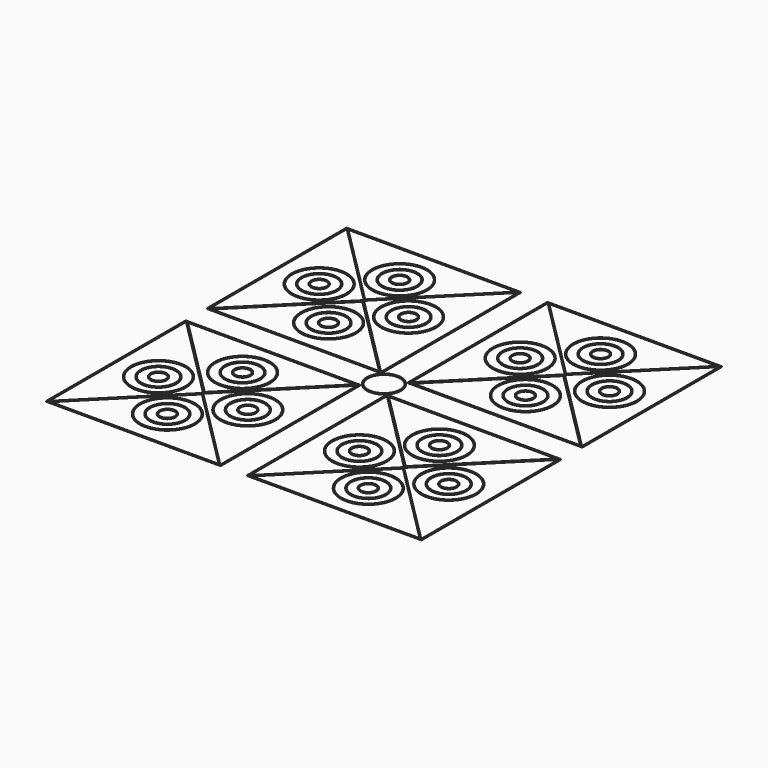
from build123d import *

# Parameters (mm, degrees)
F0_W     = 60.8
F0_H     = 60.8
F1_DEPTH = 0.27
F0_R     = 2.9
F0_R_2   = 2.5
F0_R_3   = 6.3
F0_R_4   = 5.9
F0_R_5   = 9.7
F0_R_6   = 9.3
F2_R     = 6
F2_R_2   = 5.6
F3_DEPTH = 0.27


with BuildPart() as f1:
    # F0 (on Top) → F1 (new body)
    with BuildSketch(Plane.XY):
        with Locations((35, -35)):
            Rectangle(F0_W, F0_H)
        Polygon((5.5656854249, -65), (35, -35.5656854249), (64.4343145751, -65), align=None, mode=Mode.SUBTRACT)
        with BuildLine():
            ThreePointArc((34.8585786438, -34.8585786438), (34.8, -35), (34.8585786438, -35.1414213562))
            Line((34.8585786438, -35.1414213562), (5, -65))
            Line((5, -65), (5, -5))
            Line((5, -5), (34.8585786438, -34.8585786438))
        make_face(mode=Mode.SUBTRACT)
        with BuildLine():
            ThreePointArc((35.1414213562, -35.1414213562), (35.2, -35), (35.1414213562, -34.8585786438))
            Line((35.1414213562, -34.8585786438), (65, -5))
            Line((65, -5), (65, -65))
            Line((65, -65), (35.1414213562, -35.1414213562))
        make_face(mode=Mode.SUBTRACT)
        Polygon((5.7071067812, -5), (64.2928932188, -5), (35, -34.2928932188), align=None, mode=Mode.SUBTRACT)
    extrude(amount=F1_DEPTH)


with BuildPart() as f1b:
    # F0 (on Top) → F1, piece 2 (new body)
    with BuildSketch(Plane.XY):
        with Locations((34.2928932188, -18.7272077939)):
            Circle(F0_R)
        with Locations((34.2928932188, -18.7272077939)):
            Circle(F0_R_2, mode=Mode.SUBTRACT)
    extrude(amount=F1_DEPTH)


with BuildPart() as f1c:
    # F0 (on Top) → F1, piece 3 (new body)
    with BuildSketch(Plane.XY):
        with Locations((34.2928932188, -18.7272077939)):
            Circle(F0_R_3)
        with Locations((34.2928932188, -18.7272077939)):
            Circle(F0_R_4, mode=Mode.SUBTRACT)
    extrude(amount=F1_DEPTH)


with BuildPart() as f1d:
    # F0 (on Top) → F1, piece 4 (new body)
    with BuildSketch(Plane.XY):
        with Locations((34.2928932188, -18.7272077939)):
            Circle(F0_R_5)
        with Locations((34.2928932188, -18.7272077939)):
            Circle(F0_R_6, mode=Mode.SUBTRACT)
    extrude(amount=F1_DEPTH)


with BuildPart() as f1e:
    # F0 (on Top) → F1, piece 5 (new body)
    with BuildSketch(Plane.XY):
        with Locations((50.5656854249, -35)):
            Circle(F0_R_5)
        with Locations((50.5656854249, -35)):
            Circle(F0_R_6, mode=Mode.SUBTRACT)
    extrude(amount=F1_DEPTH)


with BuildPart() as f1f:
    # F0 (on Top) → F1, piece 6 (new body)
    with BuildSketch(Plane.XY):
        with Locations((50.5656854249, -35)):
            Circle(F0_R_3)
        with Locations((50.5656854249, -35)):
            Circle(F0_R_4, mode=Mode.SUBTRACT)
    extrude(amount=F1_DEPTH)


with BuildPart() as f1g:
    # F0 (on Top) → F1, piece 7 (new body)
    with BuildSketch(Plane.XY):
        with Locations((50.5656854249, -35)):
            Circle(F0_R)
        with Locations((50.5656854249, -35)):
            Circle(F0_R_2, mode=Mode.SUBTRACT)
    extrude(amount=F1_DEPTH)


with BuildPart() as f1h:
    # F0 (on Top) → F1, piece 8 (new body)
    with BuildSketch(Plane.XY):
        with Locations((19.4343145751, -35)):
            Circle(F0_R_5)
        with Locations((19.4343145751, -35)):
            Circle(F0_R_6, mode=Mode.SUBTRACT)
    extrude(amount=F1_DEPTH)


with BuildPart() as f1i:
    # F0 (on Top) → F1, piece 9 (new body)
    with BuildSketch(Plane.XY):
        with Locations((19.4343145751, -35)):
            Circle(F0_R_3)
        with Locations((19.4343145751, -35)):
            Circle(F0_R_4, mode=Mode.SUBTRACT)
    extrude(amount=F1_DEPTH)


with BuildPart() as f1j:
    # F0 (on Top) → F1, piece 10 (new body)
    with BuildSketch(Plane.XY):
        with Locations((19.4343145751, -35)):
            Circle(F0_R)
        with Locations((19.4343145751, -35)):
            Circle(F0_R_2, mode=Mode.SUBTRACT)
    extrude(amount=F1_DEPTH)


with BuildPart() as f1k:
    # F0 (on Top) → F1, piece 11 (new body)
    with BuildSketch(Plane.XY):
        with Locations((35, -50.5656854249)):
            Circle(F0_R_5)
        with Locations((35, -50.5656854249)):
            Circle(F0_R_6, mode=Mode.SUBTRACT)
    extrude(amount=F1_DEPTH)


with BuildPart() as f1l:
    # F0 (on Top) → F1, piece 12 (new body)
    with BuildSketch(Plane.XY):
        with Locations((35, -50.5656854249)):
            Circle(F0_R_3)
        with Locations((35, -50.5656854249)):
            Circle(F0_R_4, mode=Mode.SUBTRACT)
    extrude(amount=F1_DEPTH)


with BuildPart() as f1m:
    # F0 (on Top) → F1, piece 13 (new body)
    with BuildSketch(Plane.XY):
        with Locations((35, -50.5656854249)):
            Circle(F0_R)
        with Locations((35, -50.5656854249)):
            Circle(F0_R_2, mode=Mode.SUBTRACT)
    extrude(amount=F1_DEPTH)


with BuildPart() as f1n:
    # F0 (on Top) → F1, piece 14 (new body)
    with BuildSketch(Plane.XY):
        with Locations((-35, -35)):
            Rectangle(F0_W, F0_H)
        Polygon((-35, -35.5656854249), (-5.5656854249, -65), (-64.4343145751, -65), align=None, mode=Mode.SUBTRACT)
        with BuildLine():
            Line((-35.1414213562, -35.1414213562), (-65, -65))
            Line((-65, -65), (-65, -5))
            Line((-65, -5), (-35.1414213562, -34.8585786438))
            ThreePointArc((-35.1414213562, -34.8585786438), (-35.2, -35), (-35.1414213562, -35.1414213562))
        make_face(mode=Mode.SUBTRACT)
        Polygon((-64.2928932188, -5), (-5.7071067812, -5), (-35, -34.2928932188), align=None, mode=Mode.SUBTRACT)
        with BuildLine():
            Line((-5, -5), (-5, -65))
            Line((-5, -65), (-34.8585786438, -35.1414213562))
            ThreePointArc((-34.8585786438, -35.1414213562), (-34.8, -35), (-34.8585786438, -34.8585786438))
            Line((-34.8585786438, -34.8585786438), (-5, -5))
        make_face(mode=Mode.SUBTRACT)
    extrude(amount=F1_DEPTH)


with BuildPart() as f1o:
    # F0 (on Top) → F1, piece 15 (new body)
    with BuildSketch(Plane.XY):
        with Locations((-34.2928932188, -18.7272077939)):
            Circle(F0_R_5)
        with Locations((-34.2928932188, -18.7272077939)):
            Circle(F0_R_6, mode=Mode.SUBTRACT)
    extrude(amount=F1_DEPTH)


with BuildPart() as f1p:
    # F0 (on Top) → F1, piece 16 (new body)
    with BuildSketch(Plane.XY):
        with Locations((-34.2928932188, -18.7272077939)):
            Circle(F0_R_3)
        with Locations((-34.2928932188, -18.7272077939)):
            Circle(F0_R_4, mode=Mode.SUBTRACT)
    extrude(amount=F1_DEPTH)


with BuildPart() as f1q:
    # F0 (on Top) → F1, piece 17 (new body)
    with BuildSketch(Plane.XY):
        with Locations((-34.2928932188, -18.7272077939)):
            Circle(F0_R)
        with Locations((-34.2928932188, -18.7272077939)):
            Circle(F0_R_2, mode=Mode.SUBTRACT)
    extrude(amount=F1_DEPTH)


with BuildPart() as f1r:
    # F0 (on Top) → F1, piece 18 (new body)
    with BuildSketch(Plane.XY):
        with Locations((-19.4343145751, -35)):
            Circle(F0_R_5)
        with Locations((-19.4343145751, -35)):
            Circle(F0_R_6, mode=Mode.SUBTRACT)
    extrude(amount=F1_DEPTH)


with BuildPart() as f1s:
    # F0 (on Top) → F1, piece 19 (new body)
    with BuildSketch(Plane.XY):
        with Locations((-19.4343145751, -35)):
            Circle(F0_R_3)
        with Locations((-19.4343145751, -35)):
            Circle(F0_R_4, mode=Mode.SUBTRACT)
    extrude(amount=F1_DEPTH)


with BuildPart() as f1t:
    # F0 (on Top) → F1, piece 20 (new body)
    with BuildSketch(Plane.XY):
        with Locations((-19.4343145751, -35)):
            Circle(F0_R)
        with Locations((-19.4343145751, -35)):
            Circle(F0_R_2, mode=Mode.SUBTRACT)
    extrude(amount=F1_DEPTH)


with BuildPart() as f1u:
    # F0 (on Top) → F1, piece 21 (new body)
    with BuildSketch(Plane.XY):
        with Locations((-35, -50.5656854249)):
            Circle(F0_R_5)
        with Locations((-35, -50.5656854249)):
            Circle(F0_R_6, mode=Mode.SUBTRACT)
    extrude(amount=F1_DEPTH)


with BuildPart() as f1v:
    # F0 (on Top) → F1, piece 22 (new body)
    with BuildSketch(Plane.XY):
        with Locations((-35, -50.5656854249)):
            Circle(F0_R_3)
        with Locations((-35, -50.5656854249)):
            Circle(F0_R_4, mode=Mode.SUBTRACT)
    extrude(amount=F1_DEPTH)


with BuildPart() as f1w:
    # F0 (on Top) → F1, piece 23 (new body)
    with BuildSketch(Plane.XY):
        with Locations((-35, -50.5656854249)):
            Circle(F0_R)
        with Locations((-35, -50.5656854249)):
            Circle(F0_R_2, mode=Mode.SUBTRACT)
    extrude(amount=F1_DEPTH)


with BuildPart() as f1x:
    # F0 (on Top) → F1, piece 24 (new body)
    with BuildSketch(Plane.XY):
        with Locations((-50.5656854249, -35)):
            Circle(F0_R_5)
        with Locations((-50.5656854249, -35)):
            Circle(F0_R_6, mode=Mode.SUBTRACT)
    extrude(amount=F1_DEPTH)


with BuildPart() as f1y:
    # F0 (on Top) → F1, piece 25 (new body)
    with BuildSketch(Plane.XY):
        with Locations((-50.5656854249, -35)):
            Circle(F0_R_3)
        with Locations((-50.5656854249, -35)):
            Circle(F0_R_4, mode=Mode.SUBTRACT)
    extrude(amount=F1_DEPTH)


with BuildPart() as f1z:
    # F0 (on Top) → F1, piece 26 (new body)
    with BuildSketch(Plane.XY):
        with Locations((-50.5656854249, -35)):
            Circle(F0_R)
        with Locations((-50.5656854249, -35)):
            Circle(F0_R_2, mode=Mode.SUBTRACT)
    extrude(amount=F1_DEPTH)


with BuildPart() as f1ba:
    # F0 (on Top) → F1, piece 27 (new body)
    with BuildSketch(Plane.XY):
        with Locations((-35, 35)):
            Rectangle(F0_W, F0_H)
        Polygon((-35, 34.2928932188), (-5.7071067812, 5), (-64.2928932188, 5), align=None, mode=Mode.SUBTRACT)
        with BuildLine():
            ThreePointArc((-35.1414213562, 35.1414213562), (-35.2, 35), (-35.1414213562, 34.8585786438))
            Line((-35.1414213562, 34.8585786438), (-65, 5))
            Line((-65, 5), (-65, 65))
            Line((-65, 65), (-35.1414213562, 35.1414213562))
        make_face(mode=Mode.SUBTRACT)
        with BuildLine():
            ThreePointArc((-34.8585786438, 34.8585786438), (-34.8, 35), (-34.8585786438, 35.1414213562))
            Line((-34.8585786438, 35.1414213562), (-5, 65))
            Line((-5, 65), (-5, 5))
            Line((-5, 5), (-34.8585786438, 34.8585786438))
        make_face(mode=Mode.SUBTRACT)
        Polygon((-64.4343145751, 65), (-5.5656854249, 65), (-35, 35.5656854249), align=None, mode=Mode.SUBTRACT)
    extrude(amount=F1_DEPTH)


with BuildPart() as f1bb:
    # F0 (on Top) → F1, piece 28 (new body)
    with BuildSketch(Plane.XY):
        with Locations((-50.5656854249, 35)):
            Circle(F0_R_5)
        with Locations((-50.5656854249, 35)):
            Circle(F0_R_6, mode=Mode.SUBTRACT)
    extrude(amount=F1_DEPTH)


with BuildPart() as f1bc:
    # F0 (on Top) → F1, piece 29 (new body)
    with BuildSketch(Plane.XY):
        with Locations((-50.5656854249, 35)):
            Circle(F0_R_3)
        with Locations((-50.5656854249, 35)):
            Circle(F0_R_4, mode=Mode.SUBTRACT)
    extrude(amount=F1_DEPTH)


with BuildPart() as f1bd:
    # F0 (on Top) → F1, piece 30 (new body)
    with BuildSketch(Plane.XY):
        with Locations((-50.5656854249, 35)):
            Circle(F0_R)
        with Locations((-50.5656854249, 35)):
            Circle(F0_R_2, mode=Mode.SUBTRACT)
    extrude(amount=F1_DEPTH)


with BuildPart() as f1be:
    # F0 (on Top) → F1, piece 31 (new body)
    with BuildSketch(Plane.XY):
        with Locations((-34.2928932188, 18.7272077939)):
            Circle(F0_R_5)
        with Locations((-34.2928932188, 18.7272077939)):
            Circle(F0_R_6, mode=Mode.SUBTRACT)
    extrude(amount=F1_DEPTH)


with BuildPart() as f1bf:
    # F0 (on Top) → F1, piece 32 (new body)
    with BuildSketch(Plane.XY):
        with Locations((-34.2928932188, 18.7272077939)):
            Circle(F0_R_3)
        with Locations((-34.2928932188, 18.7272077939)):
            Circle(F0_R_4, mode=Mode.SUBTRACT)
    extrude(amount=F1_DEPTH)


with BuildPart() as f1bg:
    # F0 (on Top) → F1, piece 33 (new body)
    with BuildSketch(Plane.XY):
        with Locations((-34.2928932188, 18.7272077939)):
            Circle(F0_R)
        with Locations((-34.2928932188, 18.7272077939)):
            Circle(F0_R_2, mode=Mode.SUBTRACT)
    extrude(amount=F1_DEPTH)


with BuildPart() as f1bh:
    # F0 (on Top) → F1, piece 34 (new body)
    with BuildSketch(Plane.XY):
        with Locations((-19.4343145751, 35)):
            Circle(F0_R_5)
        with Locations((-19.4343145751, 35)):
            Circle(F0_R_6, mode=Mode.SUBTRACT)
    extrude(amount=F1_DEPTH)


with BuildPart() as f1bi:
    # F0 (on Top) → F1, piece 35 (new body)
    with BuildSketch(Plane.XY):
        with Locations((-19.4343145751, 35)):
            Circle(F0_R_3)
        with Locations((-19.4343145751, 35)):
            Circle(F0_R_4, mode=Mode.SUBTRACT)
    extrude(amount=F1_DEPTH)


with BuildPart() as f1bj:
    # F0 (on Top) → F1, piece 36 (new body)
    with BuildSketch(Plane.XY):
        with Locations((-19.4343145751, 35)):
            Circle(F0_R)
        with Locations((-19.4343145751, 35)):
            Circle(F0_R_2, mode=Mode.SUBTRACT)
    extrude(amount=F1_DEPTH)


with BuildPart() as f1bk:
    # F0 (on Top) → F1, piece 37 (new body)
    with BuildSketch(Plane.XY):
        with Locations((-35, 50.5656854249)):
            Circle(F0_R_5)
        with Locations((-35, 50.5656854249)):
            Circle(F0_R_6, mode=Mode.SUBTRACT)
    extrude(amount=F1_DEPTH)


with BuildPart() as f1bl:
    # F0 (on Top) → F1, piece 38 (new body)
    with BuildSketch(Plane.XY):
        with Locations((-35, 50.5656854249)):
            Circle(F0_R_3)
        with Locations((-35, 50.5656854249)):
            Circle(F0_R_4, mode=Mode.SUBTRACT)
    extrude(amount=F1_DEPTH)


with BuildPart() as f1bm:
    # F0 (on Top) → F1, piece 39 (new body)
    with BuildSketch(Plane.XY):
        with Locations((-35, 50.5656854249)):
            Circle(F0_R)
        with Locations((-35, 50.5656854249)):
            Circle(F0_R_2, mode=Mode.SUBTRACT)
    extrude(amount=F1_DEPTH)


with BuildPart() as f1bn:
    # F0 (on Top) → F1, piece 40 (new body)
    with BuildSketch(Plane.XY):
        with Locations((35, 35)):
            Rectangle(F0_W, F0_H)
        Polygon((64.2928932188, 5), (5.7071067812, 5), (35, 34.2928932188), align=None, mode=Mode.SUBTRACT)
        with BuildLine():
            Line((5, 65), (34.8585786438, 35.1414213562))
            ThreePointArc((34.8585786438, 35.1414213562), (34.8, 35), (34.8585786438, 34.8585786438))
            Line((34.8585786438, 34.8585786438), (5, 5))
            Line((5, 5), (5, 65))
        make_face(mode=Mode.SUBTRACT)
        with BuildLine():
            Line((65, 5), (35.1414213562, 34.8585786438))
            ThreePointArc((35.1414213562, 34.8585786438), (35.2, 35), (35.1414213562, 35.1414213562))
            Line((35.1414213562, 35.1414213562), (65, 65))
            Line((65, 65), (65, 5))
        make_face(mode=Mode.SUBTRACT)
        Polygon((35, 35.5656854249), (5.5656854249, 65), (64.4343145751, 65), align=None, mode=Mode.SUBTRACT)
    extrude(amount=F1_DEPTH)


with BuildPart() as f1bo:
    # F0 (on Top) → F1, piece 41 (new body)
    with BuildSketch(Plane.XY):
        with Locations((34.2928932188, 18.7272077939)):
            Circle(F0_R_5)
        with Locations((34.2928932188, 18.7272077939)):
            Circle(F0_R_6, mode=Mode.SUBTRACT)
    extrude(amount=F1_DEPTH)


with BuildPart() as f1bp:
    # F0 (on Top) → F1, piece 42 (new body)
    with BuildSketch(Plane.XY):
        with Locations((34.2928932188, 18.7272077939)):
            Circle(F0_R_3)
        with Locations((34.2928932188, 18.7272077939)):
            Circle(F0_R_4, mode=Mode.SUBTRACT)
    extrude(amount=F1_DEPTH)


with BuildPart() as f1bq:
    # F0 (on Top) → F1, piece 43 (new body)
    with BuildSketch(Plane.XY):
        with Locations((34.2928932188, 18.7272077939)):
            Circle(F0_R)
        with Locations((34.2928932188, 18.7272077939)):
            Circle(F0_R_2, mode=Mode.SUBTRACT)
    extrude(amount=F1_DEPTH)


with BuildPart() as f1br:
    # F0 (on Top) → F1, piece 44 (new body)
    with BuildSketch(Plane.XY):
        with Locations((19.4343145751, 35)):
            Circle(F0_R_5)
        with Locations((19.4343145751, 35)):
            Circle(F0_R_6, mode=Mode.SUBTRACT)
    extrude(amount=F1_DEPTH)


with BuildPart() as f1bs:
    # F0 (on Top) → F1, piece 45 (new body)
    with BuildSketch(Plane.XY):
        with Locations((19.4343145751, 35)):
            Circle(F0_R_3)
        with Locations((19.4343145751, 35)):
            Circle(F0_R_4, mode=Mode.SUBTRACT)
    extrude(amount=F1_DEPTH)


with BuildPart() as f1bt:
    # F0 (on Top) → F1, piece 46 (new body)
    with BuildSketch(Plane.XY):
        with Locations((19.4343145751, 35)):
            Circle(F0_R)
        with Locations((19.4343145751, 35)):
            Circle(F0_R_2, mode=Mode.SUBTRACT)
    extrude(amount=F1_DEPTH)


with BuildPart() as f1bu:
    # F0 (on Top) → F1, piece 47 (new body)
    with BuildSketch(Plane.XY):
        with Locations((35, 50.5656854249)):
            Circle(F0_R)
        with Locations((35, 50.5656854249)):
            Circle(F0_R_2, mode=Mode.SUBTRACT)
    extrude(amount=F1_DEPTH)


with BuildPart() as f1bv:
    # F0 (on Top) → F1, piece 48 (new body)
    with BuildSketch(Plane.XY):
        with Locations((35, 50.5656854249)):
            Circle(F0_R_3)
        with Locations((35, 50.5656854249)):
            Circle(F0_R_4, mode=Mode.SUBTRACT)
    extrude(amount=F1_DEPTH)


with BuildPart() as f1bw:
    # F0 (on Top) → F1, piece 49 (new body)
    with BuildSketch(Plane.XY):
        with Locations((35, 50.5656854249)):
            Circle(F0_R_5)
        with Locations((35, 50.5656854249)):
            Circle(F0_R_6, mode=Mode.SUBTRACT)
    extrude(amount=F1_DEPTH)


with BuildPart() as f1bx:
    # F0 (on Top) → F1, piece 50 (new body)
    with BuildSketch(Plane.XY):
        with Locations((50.5656854249, 35)):
            Circle(F0_R_5)
        with Locations((50.5656854249, 35)):
            Circle(F0_R_6, mode=Mode.SUBTRACT)
    extrude(amount=F1_DEPTH)


with BuildPart() as f1by:
    # F0 (on Top) → F1, piece 51 (new body)
    with BuildSketch(Plane.XY):
        with Locations((50.5656854249, 35)):
            Circle(F0_R_3)
        with Locations((50.5656854249, 35)):
            Circle(F0_R_4, mode=Mode.SUBTRACT)
    extrude(amount=F1_DEPTH)


with BuildPart() as f1bz:
    # F0 (on Top) → F1, piece 52 (new body)
    with BuildSketch(Plane.XY):
        with Locations((50.5656854249, 35)):
            Circle(F0_R)
        with Locations((50.5656854249, 35)):
            Circle(F0_R_2, mode=Mode.SUBTRACT)
    extrude(amount=F1_DEPTH)


with BuildPart() as f3:
    # F2 (on Top) → F3 (new body)
    with BuildSketch(Plane.XY):
        Circle(F2_R)
        Circle(F2_R_2, mode=Mode.SUBTRACT)
    extrude(amount=F3_DEPTH)


solid = Compound([f1.part, f1b.part, f1c.part, f1d.part, f1e.part, f1f.part, f1g.part, f1h.part, f1i.part, f1j.part, f1k.part, f1l.part, f1m.part, f1n.part, f1o.part, f1p.part, f1q.part, f1r.part, f1s.part, f1t.part, f1u.part, f1v.part, f1w.part, f1x.part, f1y.part, f1z.part, f1ba.part, f1bb.part, f1bc.part, f1bd.part, f1be.part, f1bf.part, f1bg.part, f1bh.part, f1bi.part, f1bj.part, f1bk.part, f1bl.part, f1bm.part, f1bn.part, f1bo.part, f1bp.part, f1bq.part, f1br.part, f1bs.part, f1bt.part, f1bu.part, f1bv.part, f1bw.part, f1bx.part, f1by.part, f1bz.part, f3.part])
